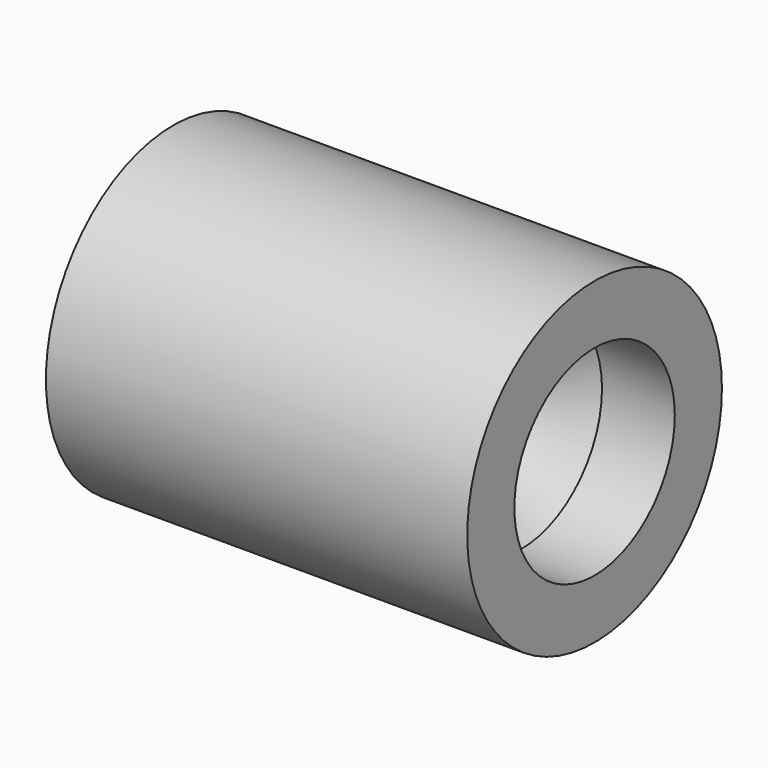
from build123d import *

# Parameters (mm, degrees)
F2_T = -2.54


with BuildPart() as f1:
    # F0 (on Top) → F1 (revolve)
    with BuildSketch(Plane.XY):
        Polygon((-70.3493505716, 53.0922934413), (-70.3493505716, 6.853281986), (-20.8075549453, 6.853281986), (29.7250784934, 17.7524778992), (45.9087304771, 33.4407128394), (70.1842084527, 33.4407128394), (70.1842084527, 53.0922934413), align=None)
    revolve(axis=Axis((-42.0623756945, 0, 0), (-1, 0, 0)))

    # F2
    f2_openings = [f1.faces().sort_by_distance(p)[0] for p in [
        (-70.349351, -51.590617, 0),
    ]]
    offset(amount=F2_T, openings=f2_openings, kind=Kind.INTERSECTION)


solid = f1.part
